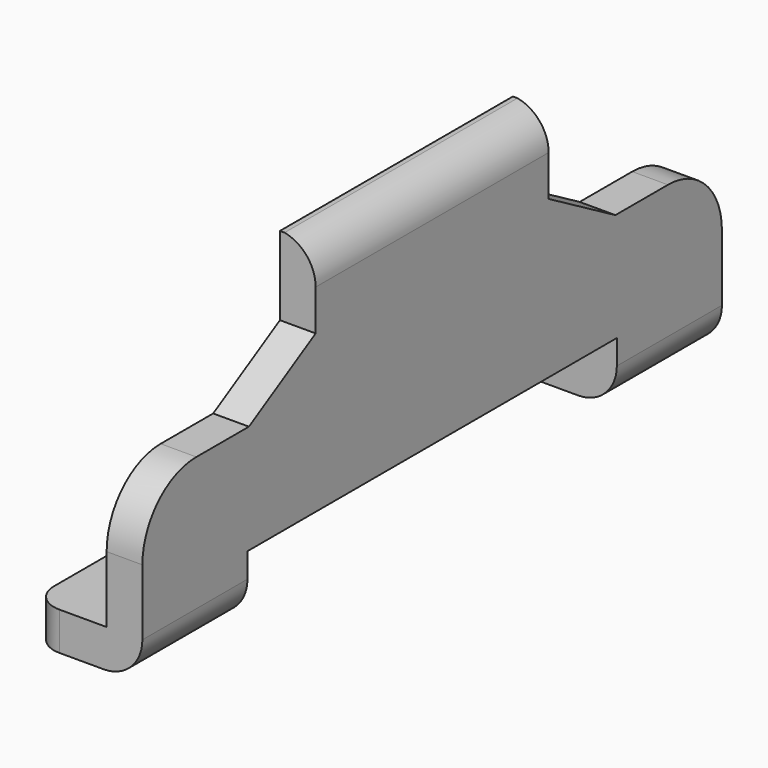
from build123d import *

# Parameters (mm, degrees)
PAD012_DEPTH    = 0.92
POCKET011_DEPTH = 3.005
SKETCH026_W     = 2.22
SKETCH026_H     = 0.623
POCKET012_DEPTH = 3.005
POCKET013_DEPTH = 2.476


with BuildPart() as pocket013:
    # Sketch024 → Pad012 (new body)
    with BuildSketch(Plane(origin=(1.7300000817, 0.0040000316, 0.008999639), x_dir=(0, 1, 0), z_dir=(1, 0, 0))):
        with BuildLine():
            Line((-3.004, 0), (-1.916, 0))
            Line((-1.916, 0), (-1.916, 0.523))
            Line((-1.916, 0.523), (0, 0.523))
            Line((0, 0.523), (0, 2.475))
            Line((0, 2.475), (-1.21, 2.475))
            Line((-1.21, 2.475), (-1.21, 1.824))
            Line((-1.21, 1.824), (-1.9010882722, 1.425))
            Line((-1.9010882722, 1.425), (-2.445, 1.425))
            ThreePointArc((-2.445, 1.425), (-2.8402726907, 1.2612726907), (-3.004, 0.866))
            Line((-3.004, 0), (-3.004, 0.866))
        make_face()
    extrude(amount=PAD012_DEPTH)

    # Sketch025 (on Face10 of Pad012) → Pocket011 (cut, through all)
    with BuildSketch(Plane(origin=(1.7300000817, -2.9999999684, 0.008999639), x_dir=(0, 0, -1), z_dir=(0, -1, 0))):
        with BuildLine():
            ThreePointArc((0, 0.6), (-0.0934329368, 0.8255670632), (-0.319, 0.919))
            Line((-0.319, 0.919), (-2.162, 0.919))
            ThreePointArc((-2.162, 0.919), (-2.3875670632, 0.8255670632), (-2.481, 0.6))
            Line((-2.481, 0.6), (-2.481, 0.979))
            Line((-2.481, 0.979), (0, 0.979))
            Line((0, 0.979), (0, 0.6))
        make_face()
    extrude(amount=-POCKET011_DEPTH, mode=Mode.SUBTRACT)

    # Sketch026 (on Face5 of Pocket011) → Pocket012 (cut, through all)
    with BuildSketch(Plane(origin=(1.7300000817, -2.9999999684, 0.008999639), x_dir=(0, 0, -1), z_dir=(0, -1, 0))):
        with Locations((-1.426, 0.3115)):
            Rectangle(SKETCH026_W, SKETCH026_H)
    extrude(amount=-POCKET012_DEPTH, mode=Mode.SUBTRACT)

    # Sketch027 (on Face1 of Pocket012) → Pocket013 (cut, through all)
    with BuildSketch(Plane(origin=(1.7300000817, 0.0040000316, 0.008999639), x_dir=(0, 1, 0), z_dir=(0, 0, -1))):
        with BuildLine():
            Line((-3.004, -0.06), (-1.916, -0.06))
            Line((-1.916, 0.233), (-1.916, -0.06))
            ThreePointArc((-2.149, 0), (-1.98424412, 0.06824412), (-1.916, 0.233))
            Line((-2.771, 0), (-2.149, 0))
            ThreePointArc((-3.004, 0.233), (-2.93575588, 0.06824412), (-2.771, 0))
            Line((-3.004, 0.233), (-3.004, -0.06))
        make_face()
    extrude(amount=-POCKET013_DEPTH, mode=Mode.SUBTRACT)


with BuildPart() as fusion:
    # Part__Mirroring005: instance of Pocket013
    add(pocket013.part.mirror(Plane(origin=(0, 0, 0), x_dir=(1, 0, 0), z_dir=(0, 1, 0))))

    # Fusion: union Pocket013
    add(pocket013.part)


solid = fusion.part
